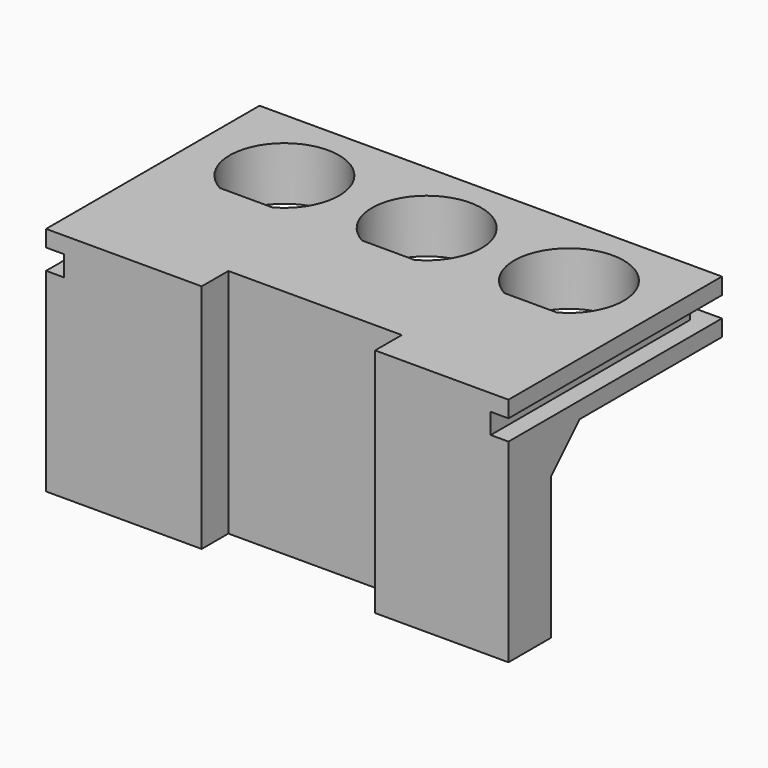
from build123d import *

# Parameters (mm, degrees)
SKETCH_W        = 52
SKETCH_H        = 30
PAD_DEPTH       = 6
SKETCH001_R     = 6.15
POCKET_DEPTH    = 6
SKETCH002_W     = 30
SKETCH002_H     = 2.3
POCKET001_DEPTH = 2
SKETCH003_W     = 52
SKETCH003_H     = 2.3
POCKET002_DEPTH = 2
SKETCH004_W     = 30
SKETCH004_H     = 2.3
POCKET003_DEPTH = 2
SKETCH005_W     = 52
SKETCH005_H     = 6
PAD001_DEPTH    = 20
SKETCH006_W     = 19.5
SKETCH006_H     = 3.75
POCKET004_DEPTH = 26
CHAMFER_SIZE    = 4
SKETCH007_W     = 45
SKETCH007_H     = 2
PAD002_DEPTH    = 6


with BuildPart() as part:
    # Sketch → Pad (new body)
    with BuildSketch(Plane.XY):
        Rectangle(SKETCH_W, SKETCH_H)
    extrude(amount=PAD_DEPTH)

    # Sketch001 (on Face6 of Pad) → Pocket (cut)
    with BuildSketch(Plane.XY.offset(6)):
        with Locations((-16, 6)):
            Circle(SKETCH001_R)
        with Locations((0, 6)):
            Circle(SKETCH001_R)
        with Locations((16, 6)):
            Circle(SKETCH001_R)
    extrude(amount=-POCKET_DEPTH, mode=Mode.SUBTRACT)

    # Sketch002 (on Face3 of Pocket) → Pocket001 (cut)
    with BuildSketch(Plane.YZ.offset(26)):
        with Locations((0, 3)):
            Rectangle(SKETCH002_W, SKETCH002_H)
    extrude(amount=-POCKET001_DEPTH, mode=Mode.SUBTRACT)

    # Sketch003 (on Face1 of Pocket001) → Pocket002 (cut)
    with BuildSketch(Plane(origin=(0, 15, 0), x_dir=(-1, 0, 0), z_dir=(0, 1, 0))):
        with Locations((0, 3)):
            Rectangle(SKETCH003_W, SKETCH003_H)
    extrude(amount=-POCKET002_DEPTH, mode=Mode.SUBTRACT)

    # Sketch004 (on Face6 of Pocket002) → Pocket003 (cut)
    with BuildSketch(Plane(origin=(-26, 0, 0), x_dir=(0, -1, 0), z_dir=(-1, 0, 0))):
        with Locations((0, 3)):
            Rectangle(SKETCH004_W, SKETCH004_H)
    extrude(amount=-POCKET003_DEPTH, mode=Mode.SUBTRACT)

    # Sketch005 (on Face2 of Pocket003) → Pad001 (join)
    with BuildSketch(Plane(origin=(0, 0, 0), x_dir=(1, 0, 0), z_dir=(0, 0, -1))):
        with Locations((0, 12)):
            Rectangle(SKETCH005_W, SKETCH005_H)
    extrude(amount=PAD001_DEPTH)

    # Sketch006 (on Face19 of Pad001) → Pocket004 (cut)
    with BuildSketch(Plane.XY.offset(6)):
        with Locations((1.25, -13.125)):
            Rectangle(SKETCH006_W, SKETCH006_H)
    extrude(amount=-POCKET004_DEPTH, mode=Mode.SUBTRACT)

    # Chamfer
    chamfer_edges = [part.edges().sort_by_distance(p)[0] for p in [
        (0, -9, 0),
    ]]
    chamfer(chamfer_edges, length=CHAMFER_SIZE)

    # Sketch007 (on Face19 of Chamfer) → Pad002 (join)
    with BuildSketch(Plane.XY.offset(6)):
        with Locations((0, -0.4)):
            Rectangle(SKETCH007_W, SKETCH007_H)
    extrude(amount=-PAD002_DEPTH)


solid = part.part
